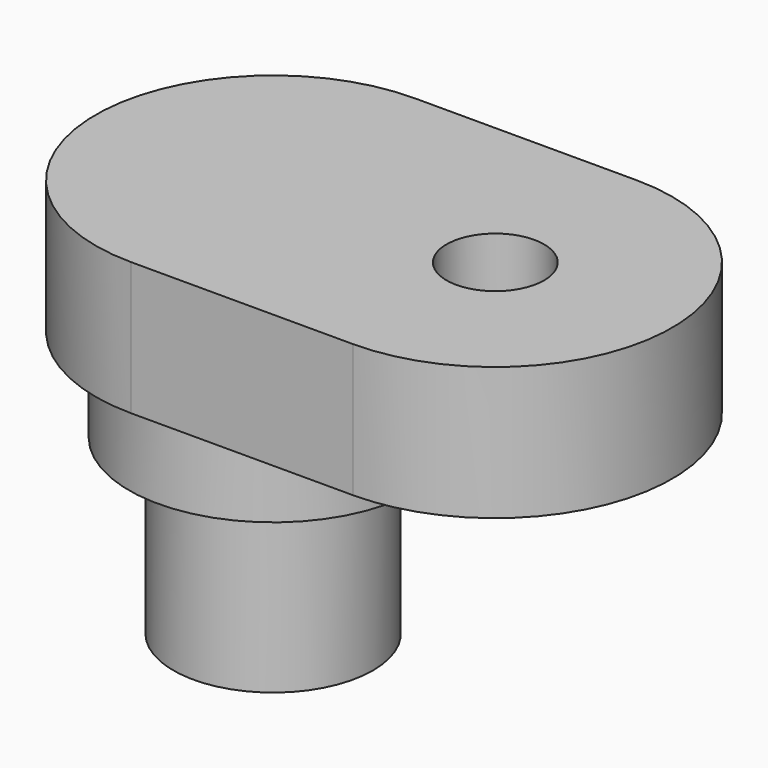
from build123d import *

# Parameters (mm, degrees)
PAD020_DEPTH = 20
SKETCH023_R  = 2.2
PAD022_DEPTH = 10
SKETCH018_R  = 6
PAD016_DEPTH = 5
SKETCH020_R  = 4.5
PAD018_DEPTH = 12
SKETCH021_R  = 6.5
PAD019_DEPTH = 4.2
PAD021_DEPTH = 6


with BuildPart() as motor_linkage_hole_body001:
    # Sketch022 → Pad020 (new body)
    with BuildSketch(Plane.XY):
        with BuildLine():
            Line((-7, 2.236068), (-7, -2.236068))
            ThreePointArc((-7, -2.236068), (-5, -3), (-3, -2.236068))
            Line((-3, -2.236068), (-3, 2.236068))
            ThreePointArc((-3, 2.236068), (-5, 3), (-7, 2.236068))
        make_face()
    extrude(amount=-PAD020_DEPTH)


with BuildPart() as hole_fusion001:
    # Sketch023 → Pad022 (new body, symmetric)
    with BuildSketch(Plane.XY):
        with Locations((5.020646, 0)):
            Circle(SKETCH023_R)
    extrude(amount=PAD022_DEPTH, both=True)

    # Fusion012: union motor linkage hole body001
    add(motor_linkage_hole_body001.part)


with BuildPart() as motor_linkage_cut001:
    # Sketch018 → Pad016 (new body)
    with BuildSketch(Plane.XY):
        with Locations((5, 0)):
            Circle(SKETCH018_R)
    extrude(amount=PAD016_DEPTH)

    # Sketch020 → Pad018 (join)
    with BuildSketch(Plane.XY):
        with Locations((-5, 0)):
            Circle(SKETCH020_R)
    extrude(amount=-PAD018_DEPTH)

    # Sketch021 → Pad019 (join)
    with BuildSketch(Plane.XY):
        with Locations((-5, 0)):
            Circle(SKETCH021_R)
    extrude(amount=-PAD019_DEPTH)

    # Sketch017 → Pad021 (join)
    with BuildSketch(Plane.XY):
        with BuildLine():
            Line((-5, 8), (5, 8))
            ThreePointArc((5, -8), (13, 0), (5, 8))
            Line((-5, -8), (5, -8))
            ThreePointArc((-5, 8), (-13, 0), (-5, -8))
        make_face()
    extrude(amount=PAD021_DEPTH)

    # Cut006: cut hole fusion001
    add(hole_fusion001.part, mode=Mode.SUBTRACT)


solid = motor_linkage_cut001.part
